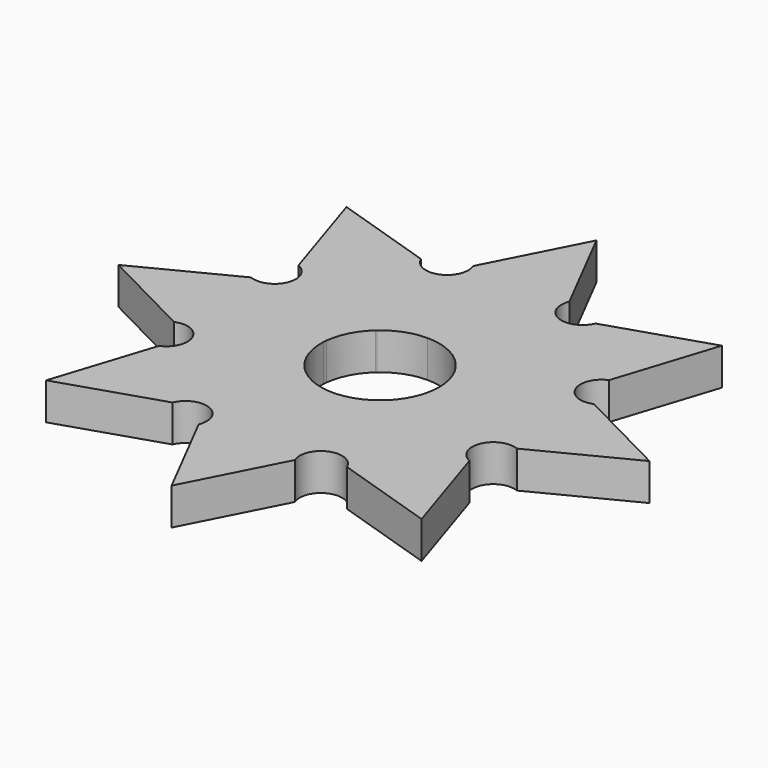
from build123d import *

# Parameters (mm, degrees)
F1_DEPTH = 7


with BuildPart() as f1:
    # F0 (on Top) → F1 (new body)
    with BuildSketch(Plane.XY):
        with BuildLine():
            ThreePointArc((11.186255, 0.554697), (11.196563, 0.277434), (11.2, 0))
            ThreePointArc((11.2, 0), (10.576152, -3.685786), (8.774104, -6.960969))
            Line((8.774104, -6.960969), (29.406726, -15.578395))
            ThreePointArc((29.406726, -15.578395), (27.252794, -10.356657), (32.46818, -8.187391))
            Line((32.46818, -8.187391), (11.186255, 0.554697))
        make_face()
        with BuildLine():
            ThreePointArc((11.126128, 1.284243), (11.162153, 0.919962), (11.186255, 0.554697))
            Line((11.186255, 0.554697), (32.46818, -8.187391))
            Line((32.46818, -8.187391), (50.26818, 0.93182))
            Line((50.26818, 0.93182), (32.46818, 10.05103))
            Line((32.46818, 10.05103), (11.126128, 1.284243))
        make_face()
        with BuildLine():
            Line((29.406726, -15.578395), (8.774104, -6.960969))
            ThreePointArc((8.774104, -6.960969), (8.362421, -7.450498), (7.923463, -7.915727))
            Line((7.923463, -7.915727), (16.510215, -28.474906))
            Line((16.510215, -28.474906), (35.544971, -34.613151))
            Line((35.544971, -34.613151), (29.406726, -15.578395))
        make_face()
        with BuildLine():
            ThreePointArc((7.519363, 8.300553), (9.96096, 5.120475), (11.126128, 1.284243))
            Line((11.126128, 1.284243), (32.46818, 10.05103))
            ThreePointArc((32.46818, 10.05103), (27.252794, 12.220297), (29.406726, 17.442035))
            Line((29.406726, 17.442035), (7.519363, 8.300553))
        make_face()
        with BuildLine():
            Line((16.510215, -28.474906), (7.923463, -7.915727))
            ThreePointArc((7.923463, -7.915727), (4.635101, -10.195874), (0.75507, -11.174519))
            Line((0.75507, -11.174519), (9.11921, -31.53636))
            ThreePointArc((9.11921, -31.53636), (11.288477, -26.320974), (16.510215, -28.474906))
        make_face()
        with BuildLine():
            ThreePointArc((7.363645, 8.439001), (7.441826, 8.370139), (7.519363, 8.300553))
            Line((7.519363, 8.300553), (29.406726, 17.442035))
            Line((29.406726, 17.442035), (35.544971, 36.476791))
            Line((35.544971, 36.476791), (16.510215, 30.338546))
            Line((16.510215, 30.338546), (7.363645, 8.439001))
        make_face()
        with BuildLine():
            Line((9.11921, -31.53636), (0.75507, -11.174519))
            ThreePointArc((0.75507, -11.174519), (0, -11.2), (-0.75507, -11.174519))
            Line((-0.75507, -11.174519), (-9.11921, -31.53636))
            Line((-9.11921, -31.53636), (0, -49.33636))
            Line((0, -49.33636), (9.11921, -31.53636))
        make_face()
        with BuildLine():
            ThreePointArc((0, 11.2), (3.932124, 10.487059), (7.363645, 8.439001))
            Line((7.363645, 8.439001), (16.510215, 30.338546))
            ThreePointArc((16.510215, 30.338546), (11.288477, 28.184613), (9.11921, 33.4))
            Line((9.11921, 33.4), (0, 11.2))
        make_face()
        with BuildLine():
            Line((-9.11921, -31.53636), (-0.75507, -11.174519))
            ThreePointArc((-0.75507, -11.174519), (-4.635101, -10.195874), (-7.923463, -7.915727))
            Line((-7.923463, -7.915727), (-16.510215, -28.474906))
            ThreePointArc((-16.510215, -28.474906), (-11.288477, -26.320974), (-9.11921, -31.53636))
        make_face()
        Polygon((-9.11921, 33.4), (0, 11.2), (0, 51.2), align=None)
        with BuildLine():
            ThreePointArc((-7.363645, 8.439001), (-3.932124, 10.487059), (0, 11.2))
            Line((0, 11.2), (-9.11921, 33.4))
            ThreePointArc((-9.11921, 33.4), (-11.288477, 28.184613), (-16.510215, 30.338546))
            Line((-16.510215, 30.338546), (-7.363645, 8.439001))
        make_face()
        Polygon((0, 51.2), (0, 11.2), (9.11921, 33.4), align=None)
        with BuildLine():
            Line((-16.510215, -28.474906), (-7.923463, -7.915727))
            ThreePointArc((-7.923463, -7.915727), (-8.362421, -7.450498), (-8.774104, -6.960969))
            Line((-8.774104, -6.960969), (-29.406726, -15.578395))
            Line((-29.406726, -15.578395), (-35.544971, -34.613151))
            Line((-35.544971, -34.613151), (-16.510215, -28.474906))
        make_face()
        with BuildLine():
            ThreePointArc((-7.519363, 8.300553), (-7.441826, 8.370139), (-7.363645, 8.439001))
            Line((-7.363645, 8.439001), (-16.510215, 30.338546))
            Line((-16.510215, 30.338546), (-35.544971, 36.476791))
            Line((-35.544971, 36.476791), (-29.406726, 17.442035))
            Line((-29.406726, 17.442035), (-7.519363, 8.300553))
        make_face()
        with BuildLine():
            Line((-29.406726, -15.578395), (-8.774104, -6.960969))
            ThreePointArc((-8.774104, -6.960969), (-10.664207, -3.422674), (-11.186255, 0.554697))
            Line((-11.186255, 0.554697), (-32.46818, -8.187391))
            ThreePointArc((-32.46818, -8.187391), (-27.252794, -10.356657), (-29.406726, -15.578395))
        make_face()
        with BuildLine():
            ThreePointArc((-11.126128, 1.284243), (-9.96096, 5.120475), (-7.519363, 8.300553))
            Line((-7.519363, 8.300553), (-29.406726, 17.442035))
            ThreePointArc((-29.406726, 17.442035), (-27.252794, 12.220297), (-32.46818, 10.05103))
            Line((-32.46818, 10.05103), (-11.126128, 1.284243))
        make_face()
        with BuildLine():
            Line((-32.46818, -8.187391), (-11.186255, 0.554697))
            ThreePointArc((-11.186255, 0.554697), (-11.162153, 0.919962), (-11.126128, 1.284243))
            Line((-11.126128, 1.284243), (-32.46818, 10.05103))
            Line((-32.46818, 10.05103), (-50.26818, 0.93182))
            Line((-50.26818, 0.93182), (-32.46818, -8.187391))
        make_face()
    extrude(amount=F1_DEPTH)


solid = f1.part
